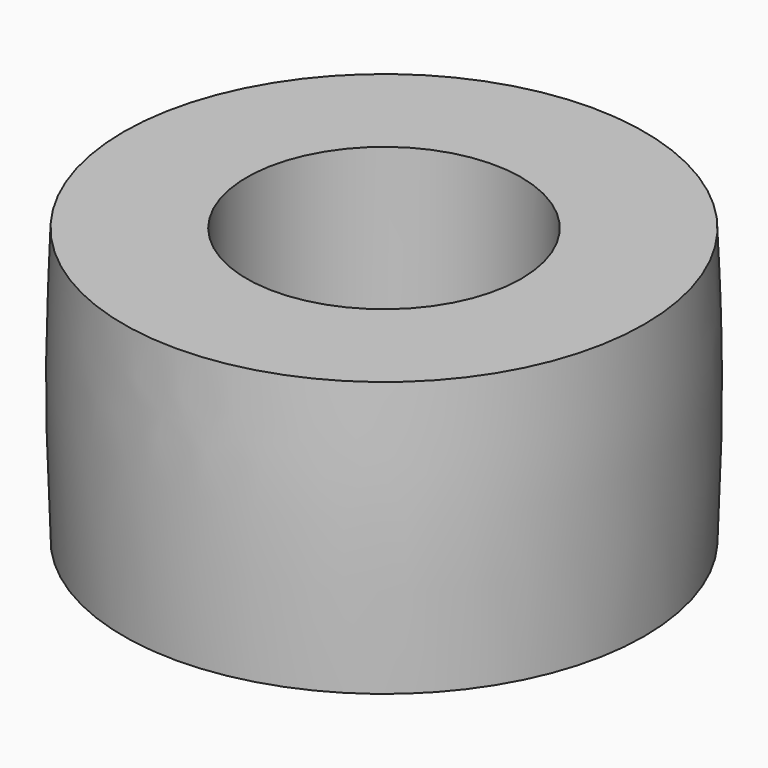
from build123d import *

# Parameters (mm, degrees)
F0_R     = 25
F0_R_2   = 13
F1_DEPTH = 13


with BuildPart() as f1:
    # F0 (on Top) → F1 (new body, symmetric)
    with BuildSketch(Plane.XY):
        Circle(F0_R)
        Circle(F0_R_2, mode=Mode.SUBTRACT)
    extrude(amount=F1_DEPTH, both=True)

    # F2 (on Front) → F3 (revolve, cut)
    with BuildSketch(Plane.XZ):
        with BuildLine():
            add(Edge.make_bspline(
                [(-24.659583, -13), (-24.829792, -8.666667), (-25.170208, 0), (-24.829792, 8.666667), (-24.659583, 13)],
                knots=[0, 0, 0, 0, 13.004456, 26.008913, 26.008913, 26.008913, 26.008913], degree=3))
            Line((-24.659583, 13), (-43.254843, 13))
            Line((-43.254843, 13), (-43.254843, -13))
            Line((-43.254843, -13), (-24.659583, -13))
        make_face()
    revolve(axis=Axis((0, 0, -0.162524), (0, 0, -1)), mode=Mode.SUBTRACT)


solid = f1.part
